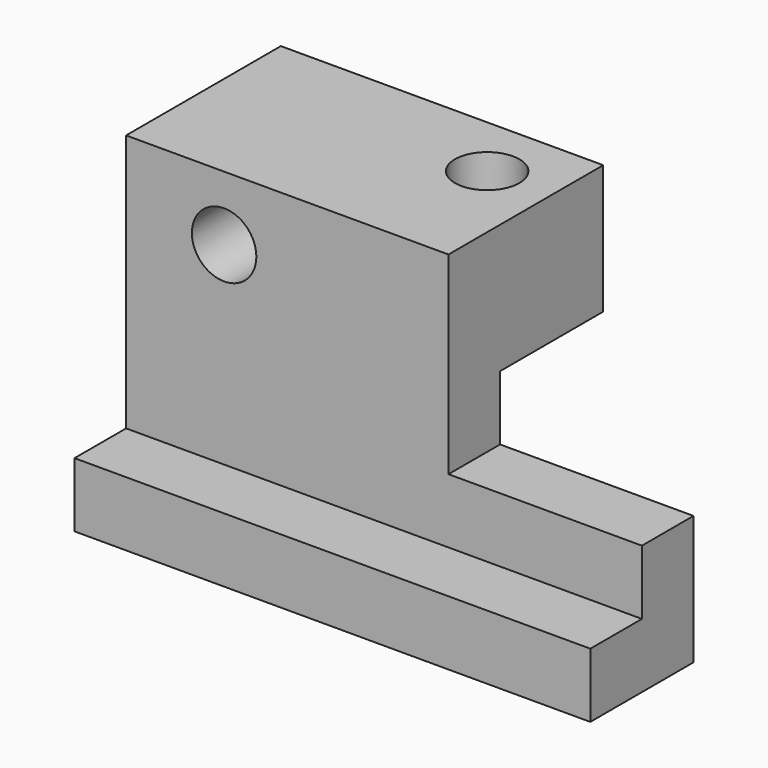
from build123d import *

# Parameters (mm, degrees)
F0_W     = 19.05
F0_H     = 12.7
F1_DEPTH = 31.75
F2_W     = 6.35
F2_H     = 6.35
F3_DEPTH = 31.75
F5_DEPTH = 50.8
F6_R     = 3.175
F7_DEPTH = 31.751
F8_R     = 3.175
F9_DEPTH = 19.051


with BuildPart() as f1:
    # F0 (on Right) → F1 (new body)
    with BuildSketch(Plane.YZ):
        with Locations((-9.525, -6.35)):
            Rectangle(F0_W, F0_H)
    extrude(amount=F1_DEPTH)

    # F2 (on face) → F3 (join)
    with BuildSketch(Plane(origin=(0, 0, 0), x_dir=(0, -1, 0), z_dir=(-1, 0, 0))):
        with Locations((15.875, -15.875)):
            Rectangle(F2_W, F2_H)
    extrude(amount=-F3_DEPTH)

    # F4 (on face) → F5 (join)
    with BuildSketch(Plane(origin=(0, 0, 0), x_dir=(0, -1, 0), z_dir=(-1, 0, 0))):
        Polygon((19.05, -25.4), (19.05, -19.05), (12.7, -19.05), (12.7, -31.75), (25.4, -31.75), (25.4, -25.4), align=None)
    extrude(amount=-F5_DEPTH)

    # F6 (on face) → F7 (cut, through all)
    with BuildSketch(Plane.XY):
        with Locations((25.4, -6.35)):
            Circle(F6_R)
    extrude(amount=-F7_DEPTH, mode=Mode.SUBTRACT)

    # F8 (on face) → F9 (cut, through all)
    with BuildSketch(Plane.XZ.offset(19.05)):
        with Locations((9.652, -6.35)):
            Circle(F8_R)
    extrude(amount=-F9_DEPTH, mode=Mode.SUBTRACT)


solid = f1.part
